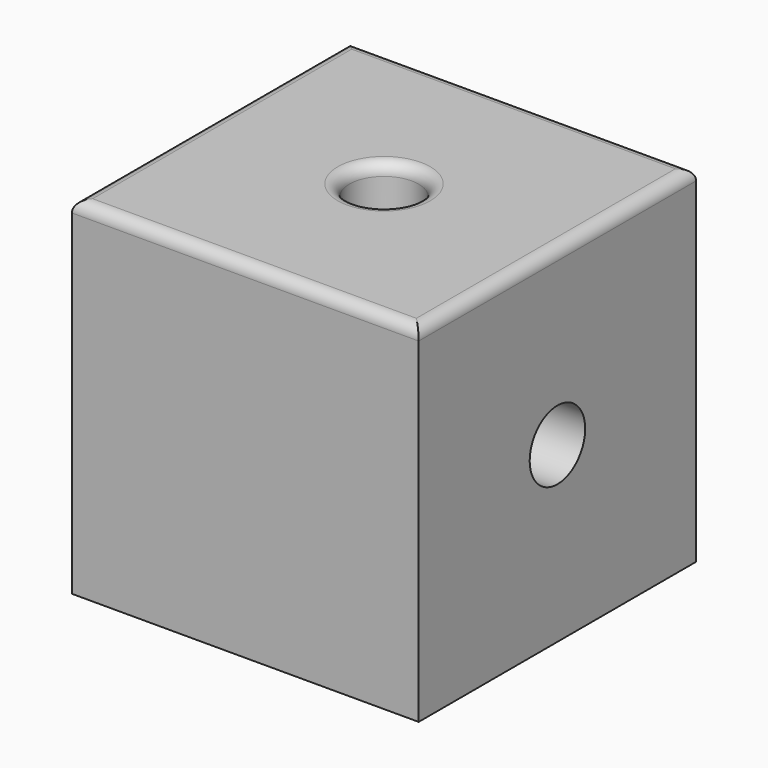
from build123d import *

# Parameters (mm, degrees)
F0_W     = 150
F0_H     = 150
F1_DEPTH = 150
F2_R     = 15
F3_DEPTH = 150
F4_R     = 15
F5_DEPTH = 150
F6_R     = 5


with BuildPart() as f1:
    # F0 (on Front) → F1 (new body)
    with BuildSketch(Plane.XZ):
        Rectangle(F0_W, F0_H)
    extrude(amount=F1_DEPTH)

    # F2 (on face) → F3 (cut)
    with BuildSketch(Plane.XY.offset(75)):
        with Locations((0, -75)):
            Circle(F2_R)
    extrude(amount=-F3_DEPTH, mode=Mode.SUBTRACT)

    # F4 (on face) → F5 (cut)
    with BuildSketch(Plane(origin=(-75, 0, 0), x_dir=(0, -1, 0), z_dir=(-1, 0, 0))):
        with Locations((75, 0)):
            Circle(F4_R)
    extrude(amount=-F5_DEPTH, mode=Mode.SUBTRACT)

    # F6
    f6_edges = [f1.edges().sort_by_distance(p)[0] for p in [
        (75, -75, 75),
        (0, 0, 75),
        (0, -150, 75),
        (-75, -75, 75),
        (-15, -75, 75),
    ]]
    fillet(f6_edges, radius=F6_R)


solid = f1.part
